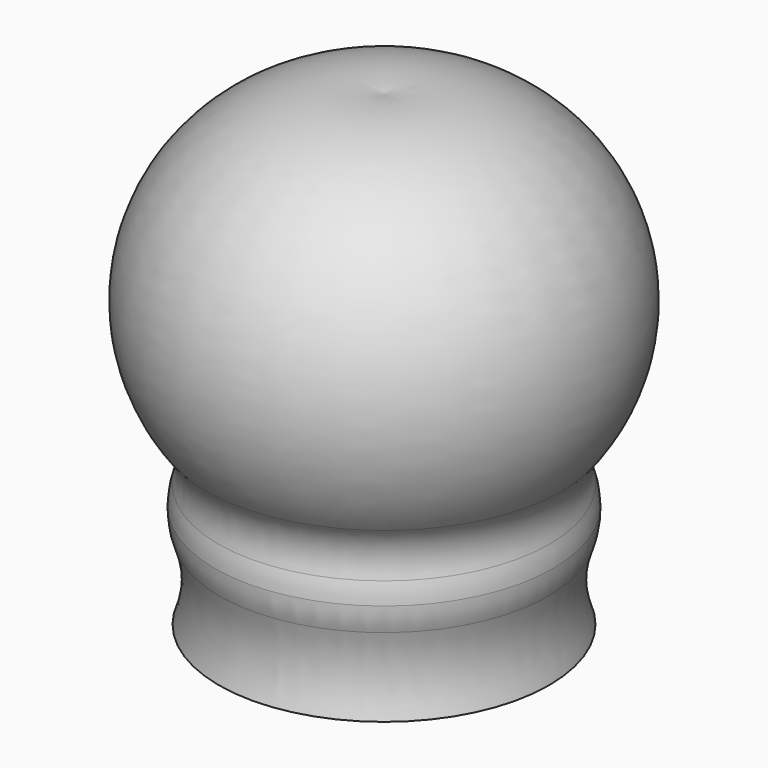
from build123d import *


with BuildPart() as f1:
    # F0 (on Front) → F1 (revolve)
    with BuildSketch(Plane.XZ):
        with BuildLine():
            Line((0, 39.053679), (0, 41.3))
            ThreePointArc((0, 41.3), (-13.165332, 35.266666), (-12.5, 20.8))
            ThreePointArc((-12.5, 20.8), (-11.564973, 19.137012), (-11.630172, 17.2303))
            ThreePointArc((-11.630172, 17.2303), (-11.7991, 16.523661), (-11.863835, 15.8))
            Line((-11.863835, 15.8), (-9.826881, 15.8))
            ThreePointArc((-9.826881, 15.8), (-9.320034, 19.165534), (-10.806304, 22.227349))
            ThreePointArc((-10.806304, 22.227349), (-11.145561, 34.328438), (0, 39.053679))
        make_face()
        with BuildLine():
            Line((-9.826881, 15.8), (-11.863835, 15.8))
            ThreePointArc((-11.863835, 15.8), (-11.794619, 14.884402), (-11.559138, 13.996899))
            ThreePointArc((-11.559138, 13.996899), (-11.078808, 11.245666), (-11.59, 8.5))
            Line((-11.59, 8.5), (-9.262584, 8.5))
            ThreePointArc((-9.262584, 8.5), (-8.905715, 12.152922), (-9.880817, 15.691337))
            ThreePointArc((-9.880817, 15.691337), (-9.853562, 15.745526), (-9.826881, 15.8))
        make_face()
    revolve(axis=Axis((0, 0, 20.65), (0, 0, 1)))


solid = f1.part
